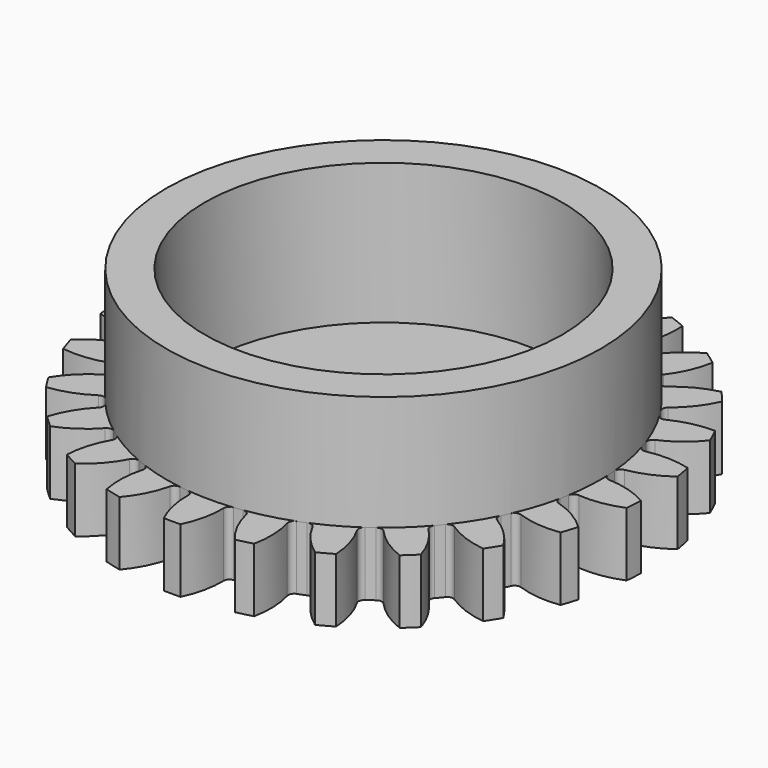
from build123d import *

# Parameters (mm, degrees)
F1_R      = 10.3378378378
F1_R_2    = 9.5720720721
F1_R_3    = 8.5
F1_R_4    = 7
F1_R_5    = 0.75
F2_DEPTH  = 2.5
F4_DEPTH  = 2.501
F5_R      = 0.2297297297
F7_COUNT  = 25
F9_DEPTH  = 7
F10_R     = 7
F10_R_2   = 0.75
F11_DEPTH = 5.5


with BuildPart() as f2:
    # F1 (on Top) → F2 (new body)
    with BuildSketch(Plane.XY):
        Circle(F1_R)
        Circle(F1_R_2, mode=Mode.SUBTRACT)
        Circle(F1_R_2)
        Circle(F1_R_3, mode=Mode.SUBTRACT)
        Circle(F1_R_3)
        Circle(F1_R_4, mode=Mode.SUBTRACT)
        Circle(F1_R_4)
        Circle(F1_R_5, mode=Mode.SUBTRACT)
    extrude(amount=F2_DEPTH)

    # F3 (on Top) → F4 (cut, through all)
    with BuildSketch(Plane.XY):
        with BuildLine():
            ThreePointArc((-1.8145302008, 11.1916957491), (-0.7995770605, 10.0008581955), (-0.3886153718, 8.4911117112))
            ThreePointArc((-0.3886153718, 8.4911117112), (0, 8.5), (0.3886153718, 8.4911117112))
            ThreePointArc((0.3886153718, 8.4911117112), (0.7995770605, 10.0008581955), (1.8145302008, 11.1916957491))
            ThreePointArc((1.8145302008, 11.1916957491), (0, 11.3378381357), (-1.8145302008, 11.1916957491))
        make_face()
    extrude(amount=F4_DEPTH, mode=Mode.SUBTRACT)

    # F5
    f5_edges = [f2.edges().sort_by_distance(p)[0] for p in [
        (-0.388615, 8.491112, 1.25),
        (0.388615, 8.491112, 1.25),
    ]]
    fillet(f5_edges, radius=F5_R)


with BuildPart() as f7_1:
    # F7: instance of F2
    add(f2.part.rotate(Axis((0, 0, 1.7428392894), (0, 0, 1)), 1 * 360 / F7_COUNT))


with BuildPart() as f7_2:
    # F7: instance of F2
    add(f2.part.rotate(Axis((0, 0, 1.7428392894), (0, 0, 1)), 2 * 360 / F7_COUNT))


with BuildPart() as f7_3:
    # F7: instance of F2
    add(f2.part.rotate(Axis((0, 0, 1.7428392894), (0, 0, 1)), 3 * 360 / F7_COUNT))


with BuildPart() as f7_4:
    # F7: instance of F2
    add(f2.part.rotate(Axis((0, 0, 1.7428392894), (0, 0, 1)), 4 * 360 / F7_COUNT))


with BuildPart() as f7_5:
    # F7: instance of F2
    add(f2.part.rotate(Axis((0, 0, 1.7428392894), (0, 0, 1)), 5 * 360 / F7_COUNT))


with BuildPart() as f7_6:
    # F7: instance of F2
    add(f2.part.rotate(Axis((0, 0, 1.7428392894), (0, 0, 1)), 6 * 360 / F7_COUNT))


with BuildPart() as f7_7:
    # F7: instance of F2
    add(f2.part.rotate(Axis((0, 0, 1.7428392894), (0, 0, 1)), 7 * 360 / F7_COUNT))


with BuildPart() as f7_8:
    # F7: instance of F2
    add(f2.part.rotate(Axis((0, 0, 1.7428392894), (0, 0, 1)), 8 * 360 / F7_COUNT))


with BuildPart() as f7_9:
    # F7: instance of F2
    add(f2.part.rotate(Axis((0, 0, 1.7428392894), (0, 0, 1)), 9 * 360 / F7_COUNT))


with BuildPart() as f7_10:
    # F7: instance of F2
    add(f2.part.rotate(Axis((0, 0, 1.7428392894), (0, 0, 1)), 10 * 360 / F7_COUNT))


with BuildPart() as f7_11:
    # F7: instance of F2
    add(f2.part.rotate(Axis((0, 0, 1.7428392894), (0, 0, 1)), 11 * 360 / F7_COUNT))


with BuildPart() as f7_12:
    # F7: instance of F2
    add(f2.part.rotate(Axis((0, 0, 1.7428392894), (0, 0, 1)), 12 * 360 / F7_COUNT))


with BuildPart() as f7_13:
    # F7: instance of F2
    add(f2.part.rotate(Axis((0, 0, 1.7428392894), (0, 0, 1)), 13 * 360 / F7_COUNT))


with BuildPart() as f7_14:
    # F7: instance of F2
    add(f2.part.rotate(Axis((0, 0, 1.7428392894), (0, 0, 1)), 14 * 360 / F7_COUNT))


with BuildPart() as f7_15:
    # F7: instance of F2
    add(f2.part.rotate(Axis((0, 0, 1.7428392894), (0, 0, 1)), 15 * 360 / F7_COUNT))


with BuildPart() as f7_16:
    # F7: instance of F2
    add(f2.part.rotate(Axis((0, 0, 1.7428392894), (0, 0, 1)), 16 * 360 / F7_COUNT))


with BuildPart() as f7_17:
    # F7: instance of F2
    add(f2.part.rotate(Axis((0, 0, 1.7428392894), (0, 0, 1)), 17 * 360 / F7_COUNT))


with BuildPart() as f7_18:
    # F7: instance of F2
    add(f2.part.rotate(Axis((0, 0, 1.7428392894), (0, 0, 1)), 18 * 360 / F7_COUNT))


with BuildPart() as f7_19:
    # F7: instance of F2
    add(f2.part.rotate(Axis((0, 0, 1.7428392894), (0, 0, 1)), 19 * 360 / F7_COUNT))


with BuildPart() as f7_20:
    # F7: instance of F2
    add(f2.part.rotate(Axis((0, 0, 1.7428392894), (0, 0, 1)), 20 * 360 / F7_COUNT))


with BuildPart() as f7_21:
    # F7: instance of F2
    add(f2.part.rotate(Axis((0, 0, 1.7428392894), (0, 0, 1)), 21 * 360 / F7_COUNT))


with BuildPart() as f7_22:
    # F7: instance of F2
    add(f2.part.rotate(Axis((0, 0, 1.7428392894), (0, 0, 1)), 22 * 360 / F7_COUNT))


with BuildPart() as f7_23:
    # F7: instance of F2
    add(f2.part.rotate(Axis((0, 0, 1.7428392894), (0, 0, 1)), 23 * 360 / F7_COUNT))


with BuildPart() as f7_24:
    # F7: instance of F2
    add(f2.part.rotate(Axis((0, 0, 1.7428392894), (0, 0, 1)), 24 * 360 / F7_COUNT))


with BuildPart() as f2_1:
    add(f2.part)

    # F8: intersect F7_1, F7_2, F7_3, F7_4, F7_5, F7_6, F7_7, F7_8, F7_10, F7_11, F7_12, F7_13, F7_14, F7_15, F7_16, F7_17, F7_18, F7_19, F7_20, F7_21, F7_24, F7_23, F7_22, F7_9
    add(f7_1.part, mode=Mode.INTERSECT)
    add(f7_2.part, mode=Mode.INTERSECT)
    add(f7_3.part, mode=Mode.INTERSECT)
    add(f7_4.part, mode=Mode.INTERSECT)
    add(f7_5.part, mode=Mode.INTERSECT)
    add(f7_6.part, mode=Mode.INTERSECT)
    add(f7_7.part, mode=Mode.INTERSECT)
    add(f7_8.part, mode=Mode.INTERSECT)
    add(f7_10.part, mode=Mode.INTERSECT)
    add(f7_11.part, mode=Mode.INTERSECT)
    add(f7_12.part, mode=Mode.INTERSECT)
    add(f7_13.part, mode=Mode.INTERSECT)
    add(f7_14.part, mode=Mode.INTERSECT)
    add(f7_15.part, mode=Mode.INTERSECT)
    add(f7_16.part, mode=Mode.INTERSECT)
    add(f7_17.part, mode=Mode.INTERSECT)
    add(f7_18.part, mode=Mode.INTERSECT)
    add(f7_19.part, mode=Mode.INTERSECT)
    add(f7_20.part, mode=Mode.INTERSECT)
    add(f7_21.part, mode=Mode.INTERSECT)
    add(f7_24.part, mode=Mode.INTERSECT)
    add(f7_23.part, mode=Mode.INTERSECT)
    add(f7_22.part, mode=Mode.INTERSECT)
    add(f7_9.part, mode=Mode.INTERSECT)

    # F1 (on Top) → F9 (join)
    with BuildSketch(Plane.XY):
        Circle(F1_R_3)
        Circle(F1_R_4, mode=Mode.SUBTRACT)
        Circle(F1_R_4)
        Circle(F1_R_5, mode=Mode.SUBTRACT)
    extrude(amount=F9_DEPTH)

    # F10 (on face) → F11 (cut)
    with BuildSketch(Plane.XY.offset(7)):
        Circle(F10_R)
        Circle(F10_R_2, mode=Mode.SUBTRACT)
    extrude(amount=-F11_DEPTH, mode=Mode.SUBTRACT)


solid = f2_1.part
